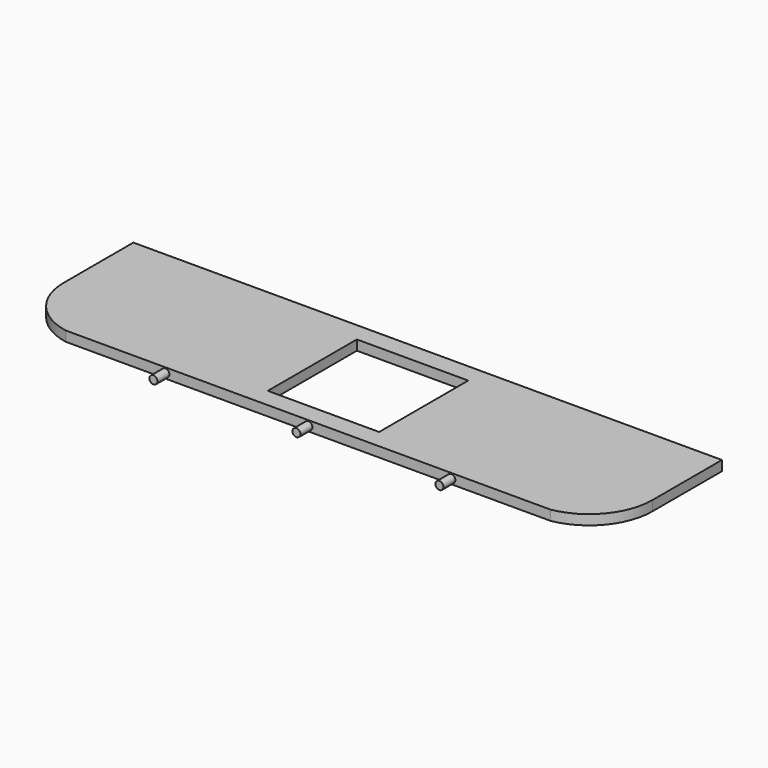
from build123d import *

# Parameters (mm, degrees)
F1_DEPTH = 1
F3_R     = 0.4045
F3_R_2   = 0.404712
F4_DEPTH = 1.5
F5_W     = 11.2
F5_H     = 11.2
F6_DEPTH = 1


with BuildPart() as f1:
    # F0 (on Top) → F1 (new body)
    with BuildSketch(Plane.XY):
        with BuildLine():
            ThreePointArc((-34.23158, 6.248362), (-32.755389, 2.177921), (-29.013159, 0))
            Line((-29.013159, 0), (19.749998, 0))
            ThreePointArc((19.749998, 0), (23.492228, 2.177921), (24.96842, 6.248362))
            Line((24.96842, 6.248362), (24.96842, 15))
            Line((24.96842, 15), (-34.23158, 15))
            Line((-34.23158, 15), (-34.23158, 6.248362))
        make_face()
    extrude(amount=-F1_DEPTH)

    # F3 (on face) → F4 (join)
    with BuildSketch(Plane.XZ):
        with Locations((-19.013159, -0.5)):
            Circle(F3_R)
        with Locations((-4.630594, -0.5)):
            Circle(F3_R_2)
        with Locations((9.749998, -0.5)):
            Circle(F3_R)
    extrude(amount=F4_DEPTH)

    # F5 (on face) → F6 (cut)
    with BuildSketch(Plane.XY):
        with Locations((-4.63158, 7.5)):
            Rectangle(F5_W, F5_H)
    extrude(amount=-F6_DEPTH, mode=Mode.SUBTRACT)


solid = f1.part
